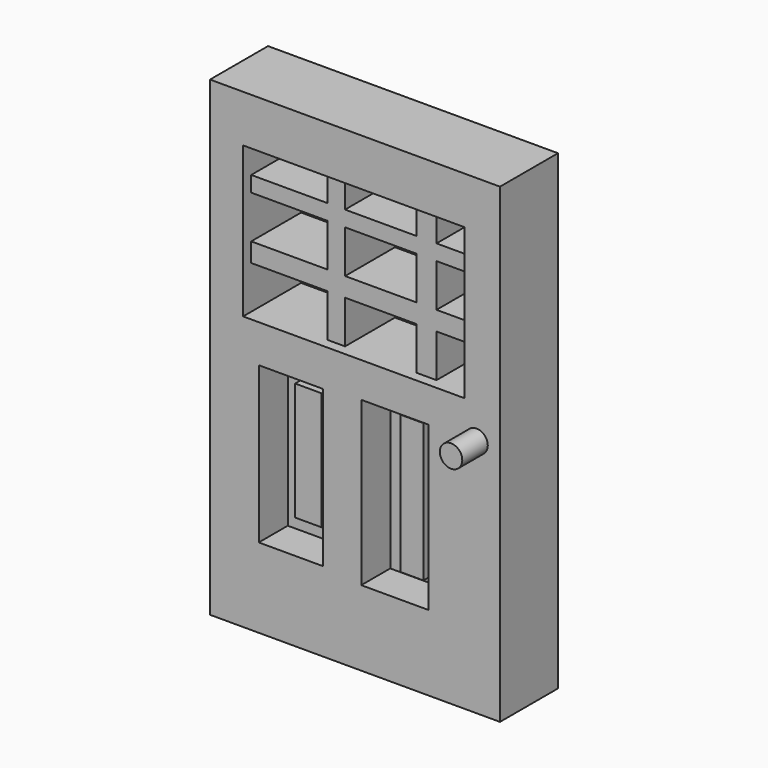
from build123d import *

# Parameters (mm, degrees)
F0_W      = 101.6
F0_H      = 165.1
F1_DEPTH  = 25.4
F2_W      = 77.5733087212
F2_H      = 52.7514182031
F3_DEPTH  = 61.976
F4_W      = 15.6093118712
F4_H      = 5.4604299366
F4_W_2    = 6.9440016523
F4_H_2    = 14.854170382
F4_W_3    = 25.0991685316
F4_H_3    = 15.0301940739
F4_W_4    = 6.2049590051
F4_H_4    = 14.403630048
F4_H_5    = 6.6751083359
F4_W_5    = 30.088968575
F4_H_6    = 21.6047465801
F4_H_7    = 20.752211567
F5_DEPTH  = 21.844
F6_W      = 22.5156284869
F6_H      = 54.6749219446
F6_W_2    = 23.5249437392
F6_H_2    = 57.1776889265
F7_DEPTH  = 12.7
F8_W      = 9.3237310648
F8_H      = 41.3462072611
F8_W_2    = 7.9486728646
F8_H_2    = 48.5131144524
F9_DEPTH  = 7.366
F10_R     = 3.9292089133
F11_DEPTH = 11.176


with BuildPart() as f1:
    # F0 (on Front) → F1 (new body)
    with BuildSketch(Plane.XZ):
        with Locations((-25.7154209539, -13.2609471531)):
            Rectangle(F0_W, F0_H)
    extrude(amount=F1_DEPTH)

    # F2 (on face) → F3 (cut)
    with BuildSketch(Plane.XZ.offset(25.4)):
        with Locations((-26.1394409463, 26.3757091016)):
            Rectangle(F2_W, F2_H)
    extrude(amount=-F3_DEPTH, mode=Mode.SUBTRACT)

    # F4 (on face) → F5 (join)
    with BuildSketch(Plane(origin=(0, 0, 0), x_dir=(-1, 0, 0), z_dir=(0, 1, 0))):
        with Locations((-7.8046559356, 39.4605305046)):
            Rectangle(F4_W, F4_H)
        with Locations((3.4720008262, 49.6178306639)):
            Rectangle(F4_W_2, F4_H_2)
        with Locations((3.4720008262, 39.4605305046)):
            Rectangle(F4_W_2, F4_H)
        with Locations((19.4935859181, 39.4605305046)):
            Rectangle(F4_W_3, F4_H)
        with Locations((3.4720008262, 29.2152184993)):
            Rectangle(F4_W_2, F4_H_3)
        with Locations((35.1456496865, 49.3925604969)):
            Rectangle(F4_W_4, F4_H_4)
        with Locations((35.1456496865, 39.4605305046)):
            Rectangle(F4_W_4, F4_H)
        with Locations((-7.8046559356, 18.3625672944)):
            Rectangle(F4_W, F4_H_5)
        with Locations((3.4720008262, 18.3625672944)):
            Rectangle(F4_W_2, F4_H_5)
        with Locations((53.2926134765, 39.4605305046)):
            Rectangle(F4_W_5, F4_H)
        with Locations((35.1456496865, 29.2152184993)):
            Rectangle(F4_W_4, F4_H_3)
        with Locations((19.4935859181, 18.3625672944)):
            Rectangle(F4_W_3, F4_H_5)
        with Locations((3.4720008262, 4.2226398364)):
            Rectangle(F4_W_2, F4_H_6)
        with Locations((35.1456496865, 18.3625672944)):
            Rectangle(F4_W_4, F4_H_5)
        with Locations((53.2926134765, 18.3625672944)):
            Rectangle(F4_W_5, F4_H_5)
        with Locations((35.1456496865, 4.6489073429)):
            Rectangle(F4_W_4, F4_H_7)
    extrude(amount=-F5_DEPTH)

    # F6 (on face) → F7 (cut)
    with BuildSketch(Plane.XZ.offset(25.4)):
        with Locations((-48.1722448021, -40.5984081254)):
            Rectangle(F6_W, F6_H)
        with Locations((-11.7624718696, -40.8460963517)):
            Rectangle(F6_W_2, F6_H_2)
    extrude(amount=-F7_DEPTH, mode=Mode.SUBTRACT)

    # F8 (on face) → F9 (join)
    with BuildSketch(Plane.XZ.offset(12.7)):
        with Locations((-46.2979972363, -39.0051342547)):
            Rectangle(F8_W, F8_H)
        with Locations((-9.9831267726, -40.1948392391)):
            Rectangle(F8_W_2, F8_H_2)
    extrude(amount=F9_DEPTH)

    # F10 (on face) → F11 (join)
    with BuildSketch(Plane.XZ.offset(25.4)):
        with Locations((16.8794579804, -11.9087984785)):
            Circle(F10_R)
    extrude(amount=F11_DEPTH)


solid = f1.part
